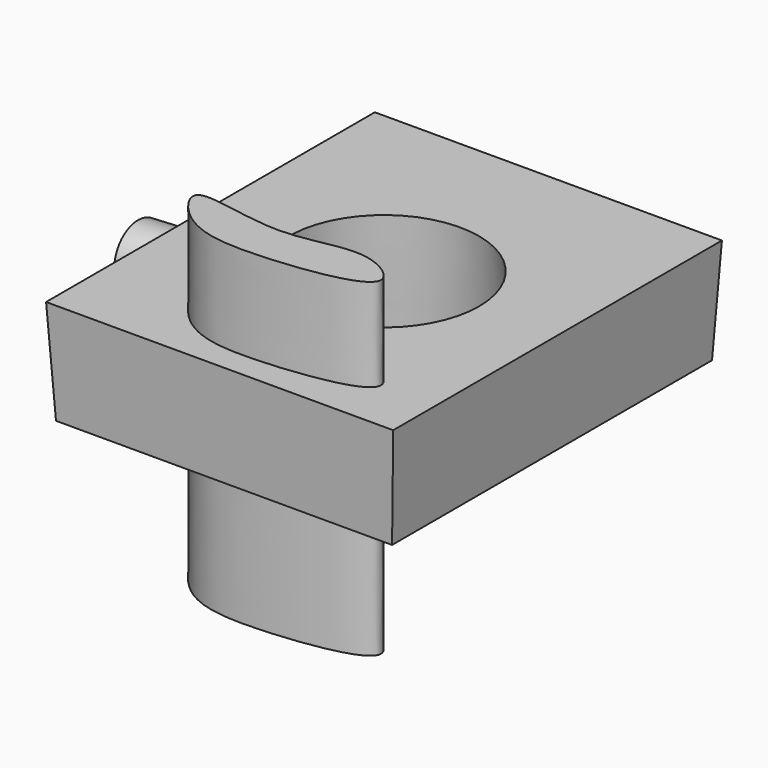
from build123d import *

# Parameters (mm, degrees)
F0_W          = 63.9814883471
F0_H          = 76.1306285858
F0_R          = 19.1449958306
F1_DEPTH      = 20
F1_TAPER      = -3
F2_R          = 6.0265715507
F3_DEPTH      = 10
F5_DEPTH      = 25
F5_DEPTH_BACK = 37.6516953111


with BuildPart() as f1:
    # F0 (on Top) → F1 (new body)
    with BuildSketch(Plane.XY):
        Rectangle(F0_W, F0_H)
        Circle(F0_R, mode=Mode.SUBTRACT)
    extrude(amount=F1_DEPTH, taper=F1_TAPER)

    # F2 (on face) → F3 (join)
    with BuildSketch(Plane(origin=(-31.9031198516, 0, -1.6719716636), x_dir=(0, -1, 0), z_dir=(-0.9986295348, 0, -0.0523359562))):
        with Locations((4.9562286586, 12.8287989646)):
            Circle(F2_R)
    extrude(amount=F3_DEPTH)

    # F4 (on face) → F5 (join, two sides)
    with BuildSketch(Plane.XY) as f5_sk:
        with BuildLine():
            add(Edge.make_bspline(
                [(22.5351676345, -29.3560177088), (21.7851462413, -32.1408402275), (2.8499068429, -35.0155943736), (-11.178209398, -33.7274369658), (-20.0921889387, -21.210911456), (1.7116247617, -28.5954993301), (14.9698227985, -21.7900850901), (23.0207599501, -27.5530179173), (22.5351676345, -29.3560177088)],
                knots=[0, 0, 0, 0, 0.1963973564, 0.3817420716, 0.5066025932, 0.6882253595, 0.8728448976, 1, 1, 1, 1], degree=3))
        make_face()
        with BuildLine():
            add(Edge.make_bspline(
                [(22.5351676345, -29.3560177088), (21.7851462413, -32.1408402275), (2.8499068429, -35.0155943736), (-11.178209398, -33.7274369658), (-20.0921889387, -21.210911456), (1.7116247617, -28.5954993301), (14.9698227985, -21.7900850901), (23.0207599501, -27.5530179173), (22.5351676345, -29.3560177088)],
                knots=[0, 0, 0, 0, 0.1963973564, 0.3817420716, 0.5066025932, 0.6882253595, 0.8728448976, 1, 1, 1, 1], degree=3))
        make_face()
    extrude(amount=-F5_DEPTH)
    extrude(f5_sk.sketch, amount=F5_DEPTH_BACK)


solid = f1.part
